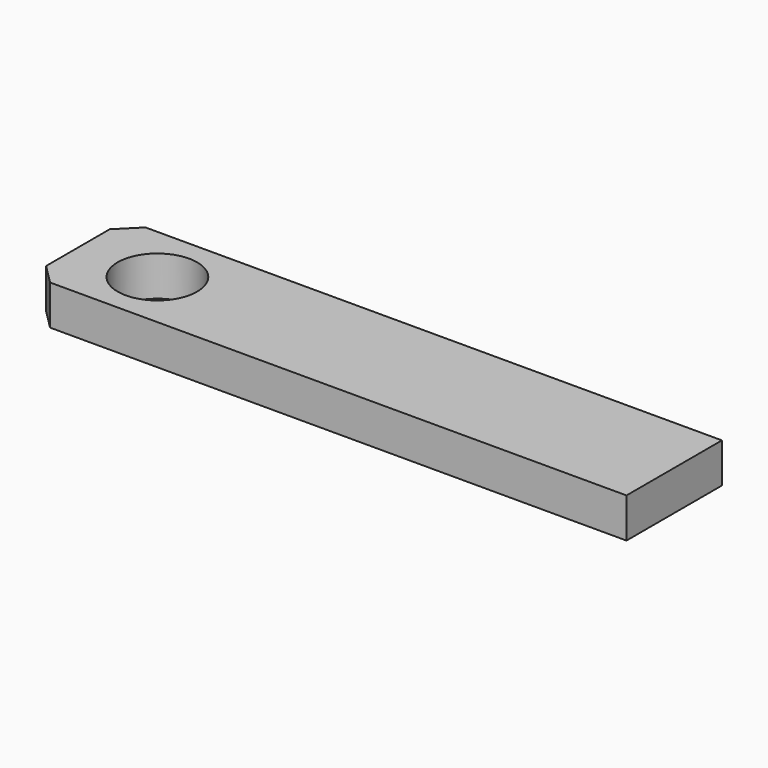
from build123d import *

# Parameters (mm, degrees)
F0_W     = 150
F0_H     = 30
F1_DEPTH = 10
F3_D     = 20
F4_SIZE  = 5


with BuildPart() as f1:
    # F0 (on Top) → F1 (new body)
    with BuildSketch(Plane.XY):
        Rectangle(F0_W, F0_H)
    extrude(amount=F1_DEPTH)

    # F3 (through all)
    with Locations(Plane.XY.offset(10)):
        with Locations((-55, 0)):
            Hole(F3_D / 2)

    # F4
    f4_edges = [f1.edges().sort_by_distance(p)[0] for p in [
        (-75, -15, 5),
        (-75, 15, 5),
    ]]
    chamfer(f4_edges, length=F4_SIZE)


solid = f1.part
